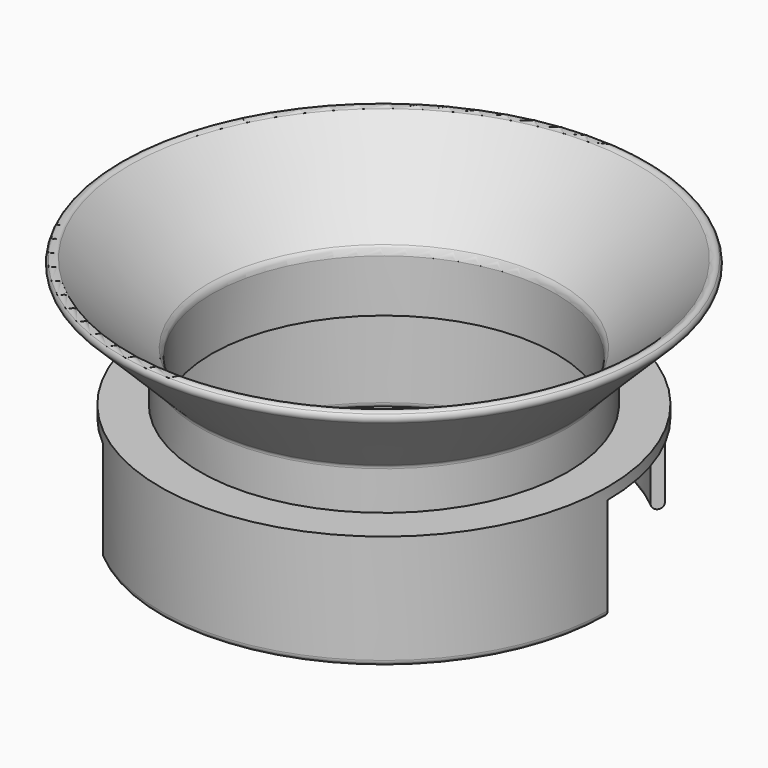
from build123d import *

# Parameters (mm, degrees)
F5_ANGLE = 130


with BuildPart() as f3:
    # F0 (on Front) → F3 (revolve)
    with BuildSketch(Plane.XZ):
        with BuildLine():
            Line((-39, 0), (-30, 0))
            Line((-30, 0), (-30, 9.171573))
            ThreePointArc((-30, 9.171573), (-30.152241, 9.93694), (-30.585786, 10.585786))
            Line((-30.585786, 10.585786), (-44.292893, 24.292893))
            ThreePointArc((-44.292893, 24.292893), (-45, 24.585786), (-45.707107, 24.292893))
            ThreePointArc((-45.707107, 24.292893), (-46, 23.585786), (-45.707107, 22.87868))
            Line((-45.707107, 22.87868), (-32.292893, 9.464466))
            ThreePointArc((-32.292893, 9.464466), (-32.07612, 9.140043), (-32, 8.757359))
            Line((-32, 8.757359), (-32, 2))
            Line((-32, 2), (-39, 2))
            Line((-39, 2), (-39, 0))
        make_face()
    revolve(axis=Axis((0, 0, 1.647223), (0, 0, -1)))

    # F1 (on Front) → F5 (revolve)
    with BuildSketch(Plane.XZ):
        with BuildLine():
            Line((-37, -17), (-37, 0))
            Line((-37, 0), (-39, 0))
            Line((-39, 0), (-39, -17))
            ThreePointArc((-39, -17), (-38.707107, -17.707107), (-38, -18))
            ThreePointArc((-38, -18), (-37.292893, -17.707107), (-37, -17))
        make_face()
        with BuildLine():
            Line((39, 0), (37, 0))
            Line((37, 0), (37, -17))
            ThreePointArc((37, -17), (37.292893, -17.707107), (38, -18))
            ThreePointArc((38, -18), (38.707107, -17.707107), (39, -17))
            Line((39, -17), (39, 0))
        make_face()
    revolve(axis=Axis((0, 0, 2.304239), (0, 0, -1)), revolution_arc=F5_ANGLE)


solid = f3.part
